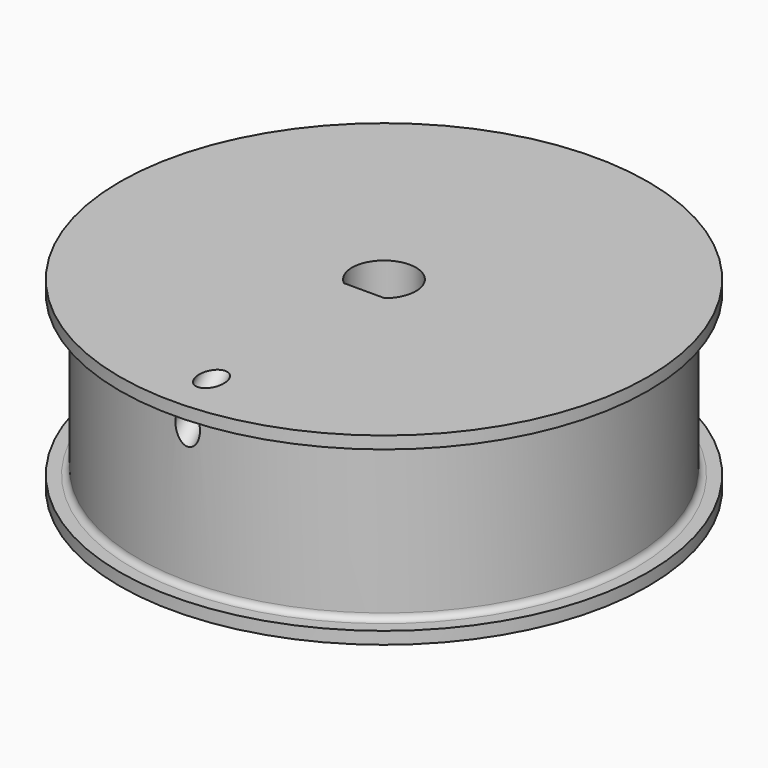
from build123d import *

# Parameters (mm, degrees)
F3_DEPTH = 15
F5_R     = 1
F6_DEPTH = 25


with BuildPart() as f1:
    # F0 (on Front) → F1 (revolve)
    with BuildSketch(Plane.XZ):
        with BuildLine():
            Line((2.6, 15), (2.6, 0))
            Line((2.6, 0), (21.5, 0))
            Line((21.5, 0), (21.5, 1))
            Line((21.5, 1), (20.5, 1))
            ThreePointArc((20.5, 1), (20.146447, 1.146447), (20, 1.5))
            Line((20, 1.5), (20, 13.5))
            ThreePointArc((20, 13.5), (20.146447, 13.853553), (20.5, 14))
            Line((20.5, 14), (21.5, 14))
            Line((21.5, 14), (21.5, 15))
            Line((21.5, 15), (2.6, 15))
        make_face()
    revolve(axis=Axis((0, 0, 3.375067), (0, 0, 1)))

    # F2 (on Top) → F3 (join, through all)
    with BuildSketch(Plane.XY):
        with BuildLine():
            Line((1.661325, -2), (-1.661325, -2))
            ThreePointArc((-1.661325, -2), (0, -2.6), (1.661325, -2))
        make_face()
    extrude(amount=F3_DEPTH)

    # F5 (on face) → F6 (cut)
    with BuildSketch(Plane(origin=(0, 6.5, 6.5), x_dir=(-1, 0, 0), z_dir=(0, 0.707107, 0.707107))):
        with Locations((0, 23.020815)):
            Circle(F5_R)
    extrude(amount=-F6_DEPTH, mode=Mode.SUBTRACT)


solid = f1.part
